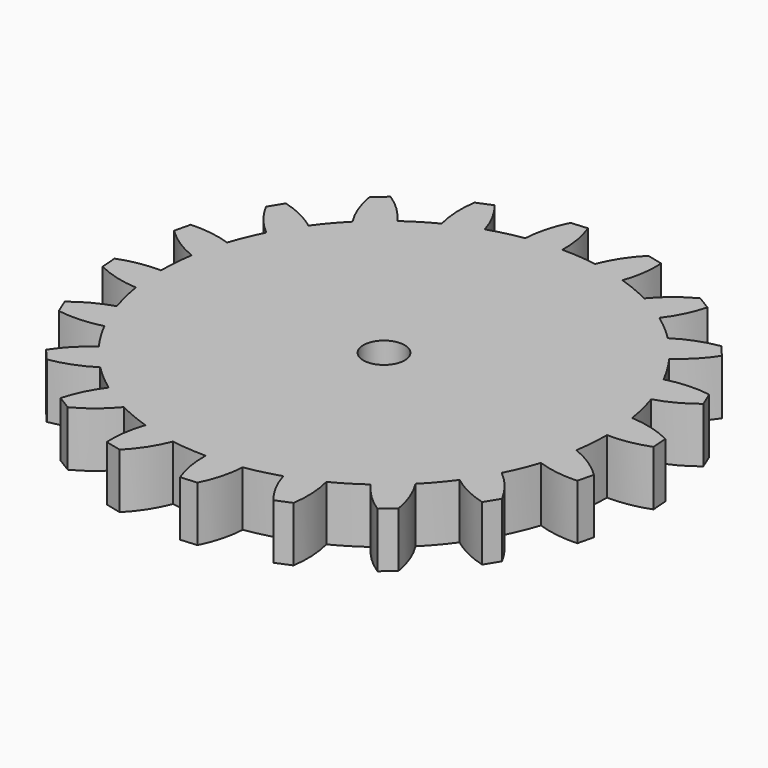
from build123d import *

# Parameters (mm, degrees)
F0_R     = 1.905
F1_DEPTH = 5.08
F2_COUNT = 20


with BuildPart() as f1:
    # F0 (on Top) → F1 (new body)
    with BuildSketch(Plane.XY):
        with BuildLine():
            ThreePointArc((24.2252784515, 2.1664437984), (22.3269265727, 2.8926485832), (20.3206999194, 3.2184826837))
            ThreePointArc((20.3206999194, 3.2184826837), (-20.5105772242, -1.6142174355), (20.574, 0))
            ThreePointArc((20.574, 0), (22.4908742639, 0.1455516853), (24.3441105881, 0.6565383418))
            Line((24.3441105881, 0.6565383418), (24.2252784515, 2.1664437984))
        make_face()
        Circle(F0_R, mode=Mode.SUBTRACT)
    extrude(amount=F1_DEPTH)

    # F2: F1 ×20 about axis
    f2_axis = Axis((0, 0, 0), (0, 0, 1))


with BuildPart() as f1_1:
    add(f1.part)
    for i in range(1, F2_COUNT):
        add(f1.part.rotate(f2_axis, i * 360 / F2_COUNT))


solid = f1_1.part
